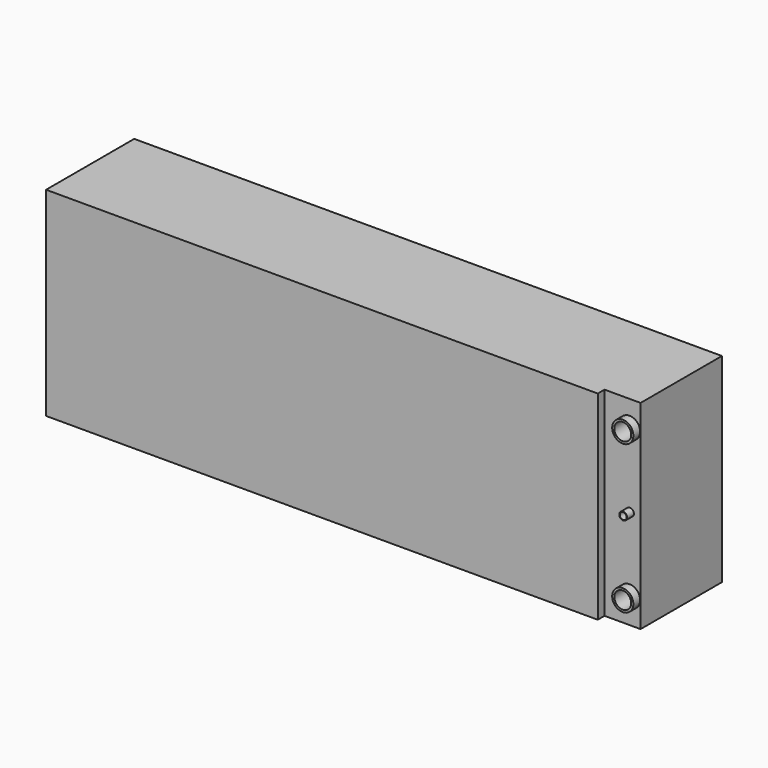
from build123d import *

# Parameters (mm, degrees)
F0_W     = 138.7
F0_H     = 47
F1_DEPTH = 26
F2_W     = 8.5
F2_H     = 47
F2_R     = 2.5
F2_R_2   = 0.93
F3_DEPTH = 2
F2_R_3   = 0.8
F2_R_4   = 2
F4_DEPTH = 15


with BuildPart() as f1:
    # F0 (on Front) → F1 (new body)
    with BuildSketch(Plane.XZ):
        Rectangle(F0_W, F0_H)
    extrude(amount=F1_DEPTH)

    # F2 (on face) → F3 (cut)
    with BuildSketch(Plane.XZ.offset(26)):
        with Locations((65.1, 0)):
            Rectangle(F2_W, F2_H)
        with Locations((66.75, -17.5)):
            Circle(F2_R, mode=Mode.SUBTRACT)
        with Locations((66.85, 0)):
            Circle(F2_R_2, mode=Mode.SUBTRACT)
        with Locations((66.75, 17.5)):
            Circle(F2_R, mode=Mode.SUBTRACT)
    extrude(amount=-F3_DEPTH, mode=Mode.SUBTRACT)

    # F2 (on face) → F4 (cut)
    with BuildSketch(Plane.XZ.offset(26)):
        with Locations((66.85, 0)):
            Circle(F2_R_3)
        with Locations((66.75, 17.5)):
            Circle(F2_R_4)
        with Locations((66.75, -17.5)):
            Circle(F2_R_4)
    extrude(amount=-F4_DEPTH, mode=Mode.SUBTRACT)


solid = f1.part
